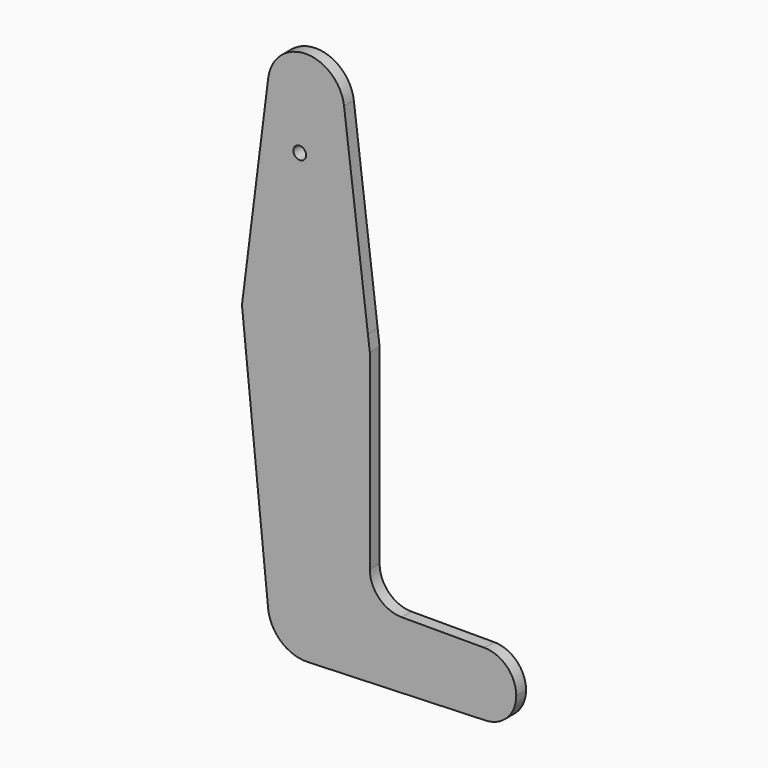
from build123d import *

# Parameters (mm, degrees)
F0_R     = 1.5875
F1_DEPTH = 3.048


with BuildPart() as f1:
    # F0 (on Front) → F1 (new body)
    with BuildSketch(Plane.XZ):
        with BuildLine():
            Line((0, 38.0796237513), (0, 41.275))
            ThreePointArc((0, 41.275), (-7.14375, 44.4998046905), (-9.4502929642, 51.990625))
            Line((-9.4502929642, 51.990625), (-15.7504883039, 1.9843747602))
            ThreePointArc((-15.7504883039, 1.9843747602), (-10.5003256064, 11.9062499201), (0, 15.875))
            Line((0, 15.875), (0, 38.0796237513))
        make_face()
        with Locations((-1.5875, 38.0796237513)):
            Circle(F0_R, mode=Mode.SUBTRACT)
        with BuildLine():
            ThreePointArc((9.525, 50.8), (6.7351920908, 44.0648079092), (0, 41.275))
            Line((0, 41.275), (0, 38.0796237513))
            Line((0, 38.0796237513), (0, 15.875))
            ThreePointArc((0, 15.875), (9.76389722, 12.5172655192), (15.3974543628, 3.8644565138))
            Line((15.3974543628, 3.8644565138), (9.4530967593, 51.9681552373))
            ThreePointArc((9.4530967593, 51.9681552373), (9.5070071956, 51.3851830343), (9.525, 50.8))
        make_face()
        with BuildLine():
            ThreePointArc((15.3974543628, 3.8644565138), (9.76389722, 12.5172655192), (0, 15.875))
            Line((0, 15.875), (0, -15.875))
            ThreePointArc((0, -15.875), (11.2253201513, -11.2253201513), (15.875, 0))
            Line((15.875, 0), (15.3974543628, 3.8644565138))
        make_face()
        with BuildLine():
            Line((0, -15.875), (0, 15.875))
            ThreePointArc((0, 15.875), (-10.5003256064, 11.9062499201), (-15.7504883039, 1.9843747602))
            ThreePointArc((-15.7504883039, 1.9843747602), (-11.9062499201, -10.5003256064), (0, -15.875))
        make_face()
        with BuildLine():
            ThreePointArc((15.875, 0), (11.2253201513, -11.2253201513), (0, -15.875))
            Line((0, -15.875), (0, -53.975))
            ThreePointArc((0, -53.975), (6.7351920908, -56.7648079092), (9.525, -63.5))
            Line((9.525, -63.5), (36.5125, -63.5))
            ThreePointArc((36.5125, -63.5), (38.8373399243, -57.8873399243), (44.45, -55.5625))
            Line((44.45, -55.5625), (23.8252, -55.5625))
            ThreePointArc((23.8252, -55.5625), (18.2035596682, -53.2339403318), (15.875, -47.6123))
            Line((15.875, -47.6123), (15.875, 0))
        make_face()
        with BuildLine():
            ThreePointArc((0, -15.875), (-11.9062499201, -10.5003256064), (-15.7504883039, 1.9843747602))
            Line((-15.7504883039, 1.9843747602), (-16.0004960241, 0))
            Line((-16.0004960241, 0), (-9.4765871109, -64.4591255022))
            ThreePointArc((-9.4765871109, -64.4591255022), (-7.0661621623, -57.1129054105), (0, -53.975))
            Line((0, -53.975), (0, -15.875))
        make_face()
        with BuildLine():
            ThreePointArc((9.525, -63.5), (6.7351920908, -56.7648079092), (0, -53.975))
            Line((0, -53.975), (0, -63.5))
            Line((0, -63.5), (9.525, -63.5))
        make_face()
        with BuildLine():
            Line((0, -63.5), (0, -53.975))
            ThreePointArc((0, -53.975), (-7.0661621623, -57.1129054105), (-9.4765871109, -64.4591255022))
            ThreePointArc((-9.4765871109, -64.4591255022), (-6.2598742362, -70.6791085482), (0.3401785714, -73.0189234444))
            ThreePointArc((0.3401785714, -73.0189234444), (6.8544082857, -70.1138273378), (9.525, -63.5))
            Line((9.525, -63.5), (0, -63.5))
        make_face()
        with BuildLine():
            Line((36.5125, -63.5), (9.525, -63.5))
            ThreePointArc((9.525, -63.5), (6.8544082857, -70.1138273378), (0.3401785714, -73.0189234444))
            Line((0.3401785714, -73.0189234444), (44.7334821429, -71.4324362036))
            ThreePointArc((44.7334821429, -71.4324362036), (38.9384772185, -69.2120069047), (36.5125, -63.5))
        make_face()
        with BuildLine():
            ThreePointArc((-9.4502929642, 51.990625), (-7.14375, 44.4998046905), (0, 41.275))
            ThreePointArc((0, 41.275), (6.7351920908, 44.0648079092), (9.525, 50.8))
            ThreePointArc((9.525, 50.8), (9.5070071956, 51.3851830343), (9.4530967593, 51.9681552373))
            ThreePointArc((9.4530967593, 51.9681552373), (0.0113220085, 60.324993271), (-9.4502929642, 51.990625))
        make_face()
        with BuildLine():
            ThreePointArc((44.45, -55.5625), (38.8373399243, -57.8873399243), (36.5125, -63.5))
            ThreePointArc((36.5125, -63.5), (38.9384772185, -69.2120069047), (44.7334821429, -71.4324362036))
            ThreePointArc((44.7334821429, -71.4324362036), (50.1620069047, -69.0115227815), (52.3875, -63.5))
            ThreePointArc((52.3875, -63.5), (50.0626600757, -57.8873399243), (44.45, -55.5625))
        make_face()
    extrude(amount=F1_DEPTH)


solid = f1.part
